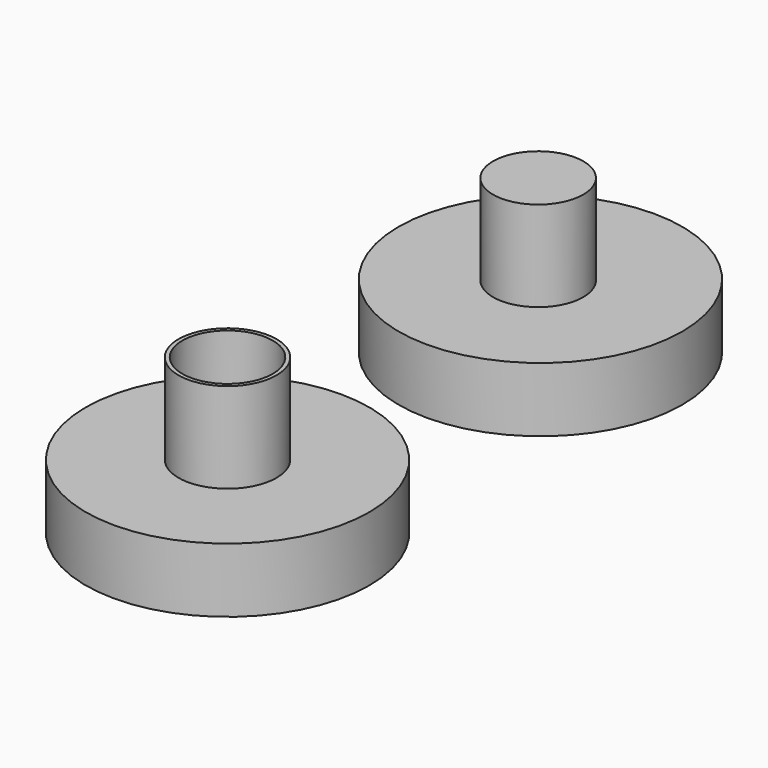
from build123d import *

# Parameters (mm, degrees)
F0_R     = 11
F1_DEPTH = 5
F2_R     = 3.8
F2_R_2   = 3.5
F3_DEPTH = 12
F4_R     = 3.5
F5_DEPTH = 12


with BuildPart() as f1:
    # F0 (on Top) → F1 (new body)
    with BuildSketch(Plane.XY):
        Circle(F0_R)
        with Locations((0, 30.32637)):
            Circle(F0_R)
    extrude(amount=F1_DEPTH)

    # F2 (on Top) → F3 (join)
    with BuildSketch(Plane.XY):
        Circle(F2_R)
        Circle(F2_R_2, mode=Mode.SUBTRACT)
    extrude(amount=F3_DEPTH)

    # F4 (on Top) → F5 (join)
    with BuildSketch(Plane.XY):
        with Locations((0, 30.102823)):
            Circle(F4_R)
    extrude(amount=F5_DEPTH)


solid = f1.part
